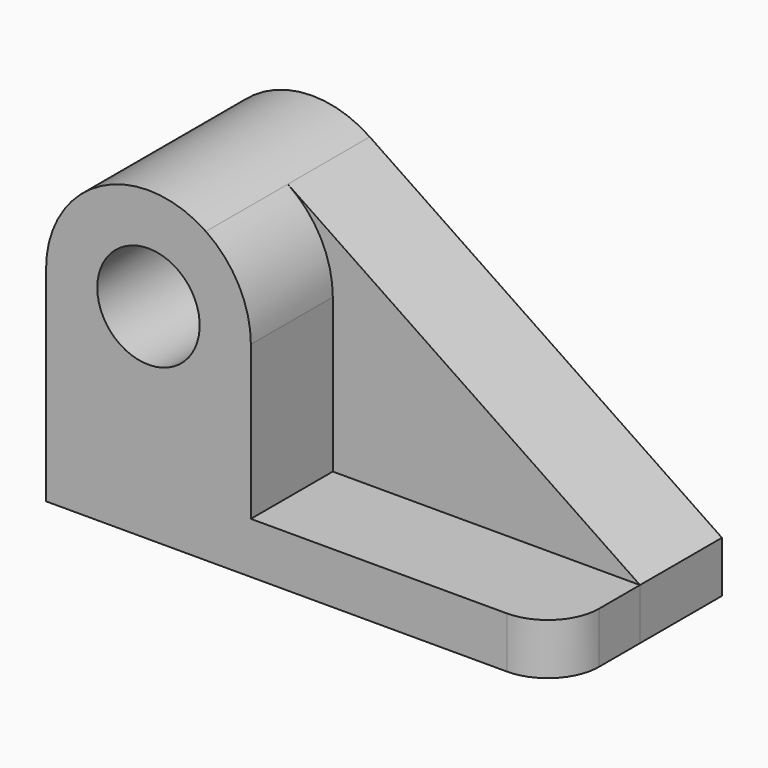
from build123d import *

# Parameters (mm, degrees)
F0_R     = 12.7
F1_DEPTH = 25.4
F3_DEPTH = 25.4
F4_R     = 12.7


with BuildPart() as f1:
    # F0 (on Front) → F1 (new body)
    with BuildSketch(Plane.XZ):
        with BuildLine():
            Line((47.671702987, 0), (-39.6838633089, 59.1298860778))
            ThreePointArc((-39.6838633089, 59.1298860778), (-65.8310568593, 60.5384560085), (-79.328297013, 38.1))
            Line((-79.328297013, 38.1), (-79.328297013, -12.7))
            Line((-79.328297013, -12.7), (47.671702987, -12.7))
            Line((47.671702987, -12.7), (47.671702987, 0))
        make_face()
        with Locations((-53.928297013, 38.1)):
            Circle(F0_R, mode=Mode.SUBTRACT)
    extrude(amount=F1_DEPTH)

    # F2 (on face) → F3 (join)
    with BuildSketch(Plane.XZ.offset(25.4)):
        with BuildLine():
            Line((-28.528297013, 38.1), (-41.228297013, 38.1))
            ThreePointArc((-41.228297013, 38.1), (-53.928297013, 25.4), (-66.628297013, 38.1))
            Line((-66.628297013, 38.1), (-79.328297013, 38.1))
            Line((-79.328297013, 38.1), (-79.328297013, 0))
            Line((-79.328297013, 0), (-79.328297013, -12.7))
            Line((-79.328297013, -12.7), (47.671702987, -12.7))
            Line((47.671702987, -12.7), (47.671702987, 0))
            Line((47.671702987, 0), (-28.528297013, 0))
            Line((-28.528297013, 0), (-28.528297013, 38.1))
        make_face()
        with BuildLine():
            ThreePointArc((-66.628297013, 38.1), (-53.928297013, 50.8), (-41.228297013, 38.1))
            Line((-41.228297013, 38.1), (-28.528297013, 38.1))
            ThreePointArc((-28.528297013, 38.1), (-31.4898410046, 50.0027598462), (-39.6838633089, 59.1298860778))
            ThreePointArc((-39.6838633089, 59.1298860778), (-65.8310568593, 60.5384560085), (-79.328297013, 38.1))
            Line((-79.328297013, 38.1), (-66.628297013, 38.1))
        make_face()
    extrude(amount=F3_DEPTH)

    # F4
    f4_edges = [f1.edges().sort_by_distance(p)[0] for p in [
        (47.671703, -50.8, -6.35),
    ]]
    fillet(f4_edges, radius=F4_R)


solid = f1.part
